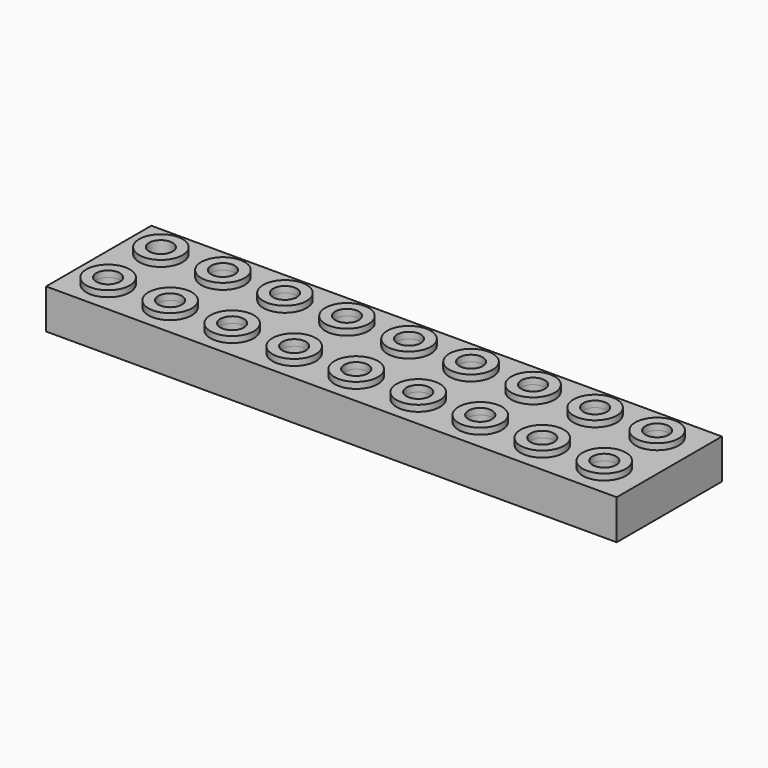
from build123d import *

# Parameters (mm, degrees)
F0_R     = 0.875
F0_R_2   = 0.475
F1_DEPTH = 1.6
F2_DEPTH = 0.25


with BuildPart() as f1:
    # F0 (on Top) → F1 (new body)
    with BuildSketch(Plane.XY):
        Polygon((-5.712371, 40.124945), (-28.712371, 40.124945), (-28.712371, 37.474945), (-28.712371, 34.824945), (-5.712371, 34.824945), (-5.712371, 37.474945), align=None)
        with Locations((-27.27286, 36.149945)):
            Circle(F0_R, mode=Mode.SUBTRACT)
        with Locations((-24.77286, 36.149945)):
            Circle(F0_R, mode=Mode.SUBTRACT)
        with Locations((-22.27286, 36.149945)):
            Circle(F0_R, mode=Mode.SUBTRACT)
        with Locations((-19.77286, 36.149945)):
            Circle(F0_R, mode=Mode.SUBTRACT)
        with Locations((-17.27286, 36.149945)):
            Circle(F0_R, mode=Mode.SUBTRACT)
        with Locations((-14.77286, 36.149945)):
            Circle(F0_R, mode=Mode.SUBTRACT)
        with Locations((-12.27286, 36.149945)):
            Circle(F0_R, mode=Mode.SUBTRACT)
        with Locations((-9.77286, 36.149945)):
            Circle(F0_R, mode=Mode.SUBTRACT)
        with Locations((-7.27286, 36.149945)):
            Circle(F0_R, mode=Mode.SUBTRACT)
        with Locations((-27.264467, 38.799945)):
            Circle(F0_R, mode=Mode.SUBTRACT)
        with Locations((-24.764467, 38.799945)):
            Circle(F0_R, mode=Mode.SUBTRACT)
        with Locations((-22.264467, 38.799945)):
            Circle(F0_R, mode=Mode.SUBTRACT)
        with Locations((-19.764467, 38.799945)):
            Circle(F0_R, mode=Mode.SUBTRACT)
        with Locations((-17.264467, 38.799945)):
            Circle(F0_R, mode=Mode.SUBTRACT)
        with Locations((-14.764467, 38.799945)):
            Circle(F0_R, mode=Mode.SUBTRACT)
        with Locations((-12.264467, 38.799945)):
            Circle(F0_R, mode=Mode.SUBTRACT)
        with Locations((-9.764467, 38.799945)):
            Circle(F0_R, mode=Mode.SUBTRACT)
        with Locations((-7.264467, 38.799945)):
            Circle(F0_R, mode=Mode.SUBTRACT)
        with Locations((-27.264467, 38.799945)):
            Circle(F0_R)
        with Locations((-27.264467, 38.799945)):
            Circle(F0_R_2, mode=Mode.SUBTRACT)
        with Locations((-24.764467, 38.799945)):
            Circle(F0_R)
        with Locations((-24.764467, 38.799945)):
            Circle(F0_R_2, mode=Mode.SUBTRACT)
        with Locations((-22.264467, 38.799945)):
            Circle(F0_R)
        with Locations((-22.264467, 38.799945)):
            Circle(F0_R_2, mode=Mode.SUBTRACT)
        with Locations((-19.764467, 38.799945)):
            Circle(F0_R)
        with Locations((-19.764467, 38.799945)):
            Circle(F0_R_2, mode=Mode.SUBTRACT)
        with Locations((-17.264467, 38.799945)):
            Circle(F0_R)
        with Locations((-17.264467, 38.799945)):
            Circle(F0_R_2, mode=Mode.SUBTRACT)
        with Locations((-14.764467, 38.799945)):
            Circle(F0_R)
        with Locations((-14.764467, 38.799945)):
            Circle(F0_R_2, mode=Mode.SUBTRACT)
        with Locations((-12.264467, 38.799945)):
            Circle(F0_R)
        with Locations((-12.264467, 38.799945)):
            Circle(F0_R_2, mode=Mode.SUBTRACT)
        with Locations((-9.764467, 38.799945)):
            Circle(F0_R)
        with Locations((-9.764467, 38.799945)):
            Circle(F0_R_2, mode=Mode.SUBTRACT)
        with Locations((-7.264467, 38.799945)):
            Circle(F0_R)
        with Locations((-7.264467, 38.799945)):
            Circle(F0_R_2, mode=Mode.SUBTRACT)
        with Locations((-7.27286, 36.149945)):
            Circle(F0_R)
        with Locations((-7.27286, 36.149945)):
            Circle(F0_R_2, mode=Mode.SUBTRACT)
        with Locations((-9.77286, 36.149945)):
            Circle(F0_R)
        with Locations((-9.77286, 36.149945)):
            Circle(F0_R_2, mode=Mode.SUBTRACT)
        with Locations((-12.27286, 36.149945)):
            Circle(F0_R)
        with Locations((-12.27286, 36.149945)):
            Circle(F0_R_2, mode=Mode.SUBTRACT)
        with Locations((-14.77286, 36.149945)):
            Circle(F0_R)
        with Locations((-14.77286, 36.149945)):
            Circle(F0_R_2, mode=Mode.SUBTRACT)
        with Locations((-17.27286, 36.149945)):
            Circle(F0_R)
        with Locations((-17.27286, 36.149945)):
            Circle(F0_R_2, mode=Mode.SUBTRACT)
        with Locations((-19.77286, 36.149945)):
            Circle(F0_R)
        with Locations((-19.77286, 36.149945)):
            Circle(F0_R_2, mode=Mode.SUBTRACT)
        with Locations((-22.27286, 36.149945)):
            Circle(F0_R)
        with Locations((-22.27286, 36.149945)):
            Circle(F0_R_2, mode=Mode.SUBTRACT)
        with Locations((-24.77286, 36.149945)):
            Circle(F0_R)
        with Locations((-24.77286, 36.149945)):
            Circle(F0_R_2, mode=Mode.SUBTRACT)
        with Locations((-27.27286, 36.149945)):
            Circle(F0_R)
        with Locations((-27.27286, 36.149945)):
            Circle(F0_R_2, mode=Mode.SUBTRACT)
    extrude(amount=-F1_DEPTH)

    # F0 (on Top) → F2 (join)
    with BuildSketch(Plane.XY):
        with Locations((-27.264467, 38.799945)):
            Circle(F0_R)
        with Locations((-27.264467, 38.799945)):
            Circle(F0_R_2, mode=Mode.SUBTRACT)
        with Locations((-24.764467, 38.799945)):
            Circle(F0_R)
        with Locations((-24.764467, 38.799945)):
            Circle(F0_R_2, mode=Mode.SUBTRACT)
        with Locations((-22.264467, 38.799945)):
            Circle(F0_R)
        with Locations((-22.264467, 38.799945)):
            Circle(F0_R_2, mode=Mode.SUBTRACT)
        with Locations((-19.764467, 38.799945)):
            Circle(F0_R)
        with Locations((-19.764467, 38.799945)):
            Circle(F0_R_2, mode=Mode.SUBTRACT)
        with Locations((-17.264467, 38.799945)):
            Circle(F0_R)
        with Locations((-17.264467, 38.799945)):
            Circle(F0_R_2, mode=Mode.SUBTRACT)
        with Locations((-14.764467, 38.799945)):
            Circle(F0_R)
        with Locations((-14.764467, 38.799945)):
            Circle(F0_R_2, mode=Mode.SUBTRACT)
        with Locations((-12.264467, 38.799945)):
            Circle(F0_R)
        with Locations((-12.264467, 38.799945)):
            Circle(F0_R_2, mode=Mode.SUBTRACT)
        with Locations((-9.764467, 38.799945)):
            Circle(F0_R)
        with Locations((-9.764467, 38.799945)):
            Circle(F0_R_2, mode=Mode.SUBTRACT)
        with Locations((-27.27286, 36.149945)):
            Circle(F0_R)
        with Locations((-27.27286, 36.149945)):
            Circle(F0_R_2, mode=Mode.SUBTRACT)
        with Locations((-24.77286, 36.149945)):
            Circle(F0_R)
        with Locations((-24.77286, 36.149945)):
            Circle(F0_R_2, mode=Mode.SUBTRACT)
        with Locations((-22.27286, 36.149945)):
            Circle(F0_R)
        with Locations((-22.27286, 36.149945)):
            Circle(F0_R_2, mode=Mode.SUBTRACT)
        with Locations((-19.77286, 36.149945)):
            Circle(F0_R)
        with Locations((-19.77286, 36.149945)):
            Circle(F0_R_2, mode=Mode.SUBTRACT)
        with Locations((-17.27286, 36.149945)):
            Circle(F0_R)
        with Locations((-17.27286, 36.149945)):
            Circle(F0_R_2, mode=Mode.SUBTRACT)
        with Locations((-14.77286, 36.149945)):
            Circle(F0_R)
        with Locations((-14.77286, 36.149945)):
            Circle(F0_R_2, mode=Mode.SUBTRACT)
        with Locations((-12.27286, 36.149945)):
            Circle(F0_R)
        with Locations((-12.27286, 36.149945)):
            Circle(F0_R_2, mode=Mode.SUBTRACT)
        with Locations((-9.77286, 36.149945)):
            Circle(F0_R)
        with Locations((-9.77286, 36.149945)):
            Circle(F0_R_2, mode=Mode.SUBTRACT)
        with Locations((-7.27286, 36.149945)):
            Circle(F0_R)
        with Locations((-7.27286, 36.149945)):
            Circle(F0_R_2, mode=Mode.SUBTRACT)
        with Locations((-7.264467, 38.799945)):
            Circle(F0_R)
        with Locations((-7.264467, 38.799945)):
            Circle(F0_R_2, mode=Mode.SUBTRACT)
    extrude(amount=F2_DEPTH)


solid = f1.part
